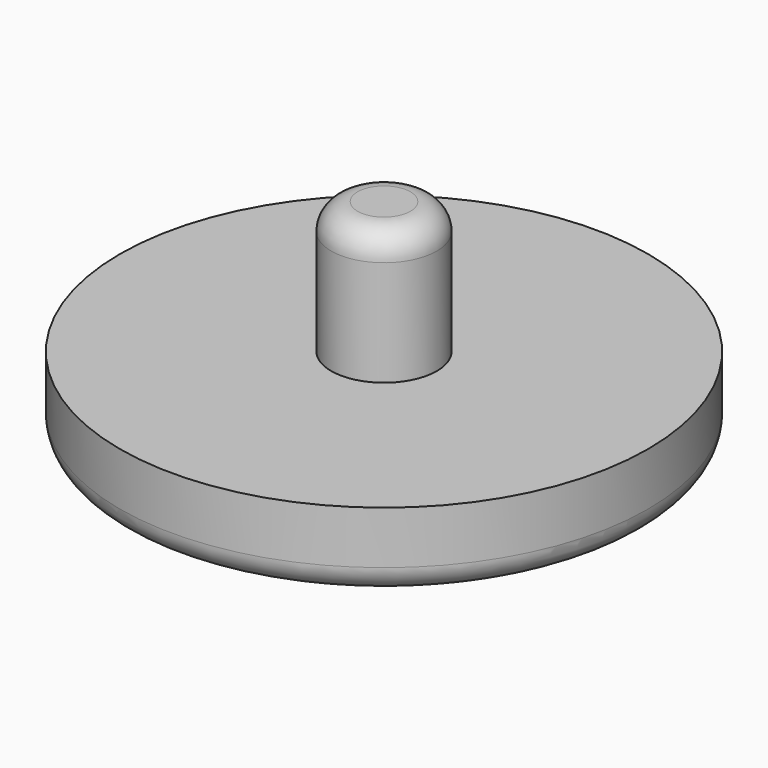
from build123d import *

# Parameters (mm, degrees)
SKETCH_R     = 10
PAD_DEPTH    = 3
SKETCH001_R  = 2
PAD001_DEPTH = 5
FILLET_R     = 1
FILLET001_R  = 1


with BuildPart() as part:
    # Sketch → Pad (new body)
    with BuildSketch(Plane.XY):
        Circle(SKETCH_R)
    extrude(amount=PAD_DEPTH)

    # Sketch001 (on Face3 of Pad) → Pad001 (join)
    with BuildSketch(Plane.XY.offset(3)):
        Circle(SKETCH001_R)
    extrude(amount=PAD001_DEPTH)

    # Fillet
    fillet_edges = [part.edges().sort_by_distance(p)[0] for p in [
        (-2, 0, 8),
    ]]
    fillet(fillet_edges, radius=FILLET_R)

    # Fillet001
    fillet001_edges = [part.edges().sort_by_distance(p)[0] for p in [
        (-10, 0, 0),
    ]]
    fillet(fillet001_edges, radius=FILLET001_R)


solid = part.part
